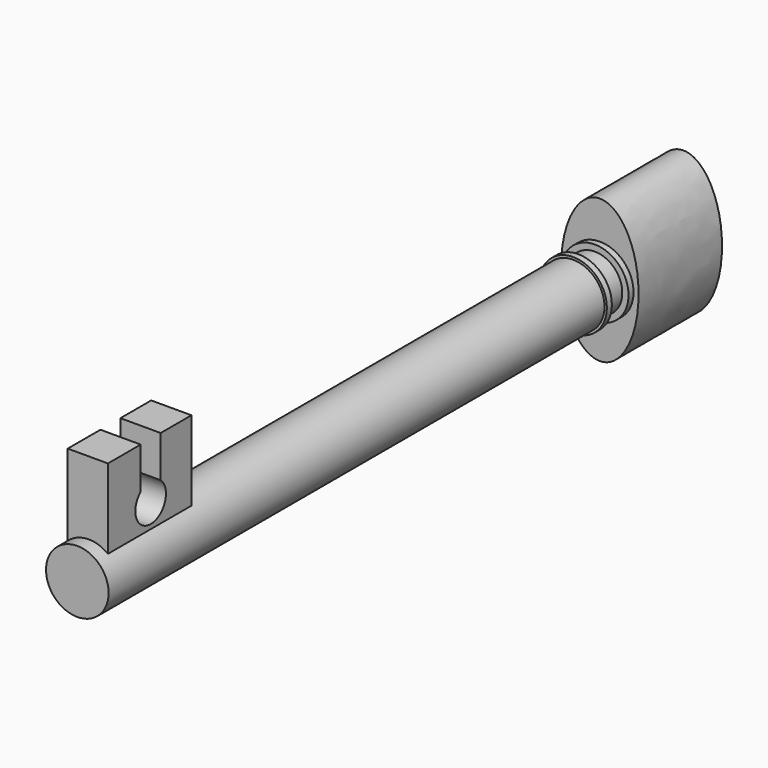
from build123d import *

# Parameters (mm, degrees)
F0_R      = 1.5
F1_DEPTH  = 30
F2_R      = 1.6147965921
F3_DEPTH  = 0.3
F4_R      = 1.3139828075
F5_DEPTH  = 1
F6_R      = 1.6138280909
F7_DEPTH  = 0.3
F8_W      = 1.9266049554
F8_H      = 5
F9_DEPTH  = 5
F11_DEPTH = 25
F13_DEPTH = 5


with BuildPart() as f1:
    # F0 (on Front) → F1 (new body)
    with BuildSketch(Plane.XZ):
        Circle(F0_R)
    extrude(amount=F1_DEPTH)

    # F2 (on Front) → F3 (join)
    with BuildSketch(Plane.XZ):
        Circle(F2_R)
    extrude(amount=F3_DEPTH)

    # F4 (on face) → F5 (join)
    with BuildSketch(Plane(origin=(0, 0, 0), x_dir=(-1, 0, 0), z_dir=(0, 1, 0))):
        Circle(F4_R)
    extrude(amount=F5_DEPTH)

    # F6 (on face) → F7 (join)
    with BuildSketch(Plane(origin=(0, 1, 0), x_dir=(-1, 0, 0), z_dir=(0, 1, 0))):
        Circle(F6_R)
    extrude(amount=F7_DEPTH)

    # F8 (on Top) → F9 (join)
    with BuildSketch(Plane.XY):
        with Locations((-0.043372449, -26.8169632182)):
            Rectangle(F8_W, F8_H)
    extrude(amount=F9_DEPTH)

    # F10 (on face) → F11 (cut)
    with BuildSketch(Plane(origin=(-1.0066749267, 0, 0), x_dir=(0, -1, 0), z_dir=(-1, 0, 0))):
        with BuildLine():
            Line((27.3571331054, 5), (26.1592064053, 5))
            Line((26.1592064053, 5), (26.1592064053, 3.0086300197))
            ThreePointArc((26.1592064053, 3.0086300197), (26.7581697553, 3.2316258366), (27.3571331054, 3.0086300197))
            Line((27.3571331054, 3.0086300197), (27.3571331054, 5))
        make_face()
        with BuildLine():
            ThreePointArc((27.3571331054, 3.0086300197), (26.7581697553, 3.2316258366), (26.1592064053, 3.0086300197))
            Line((26.1592064053, 3.0086300197), (26.1592064053, 2.4211721029))
            Line((26.1592064053, 2.4211721029), (27.3571331054, 2.4211721029))
            Line((27.3571331054, 2.4211721029), (27.3571331054, 3.0086300197))
        make_face()
        with BuildLine():
            Line((26.1592064053, 2.4211721029), (26.1592064053, 3.0086300197))
            ThreePointArc((26.1592064053, 3.0086300197), (26.3771949289, 1.4828183704), (27.6740708577, 2.3157247342))
            ThreePointArc((27.6740708577, 2.3157247342), (27.5910761192, 2.6966995606), (27.3571331054, 3.0086300197))
            Line((27.3571331054, 3.0086300197), (27.3571331054, 2.4211721029))
            Line((27.3571331054, 2.4211721029), (26.1592064053, 2.4211721029))
        make_face()
    extrude(amount=-F11_DEPTH, mode=Mode.SUBTRACT)

    # F12 (on face) → F13 (join)
    with BuildSketch(Plane(origin=(0, 1.3, 0), x_dir=(-1, 0, 0), z_dir=(0, 1, 0))):
        with BuildLine():
            add(Edge.make_bspline(
                [(0, 3.4274058416), (-3.2117910591, 3.4274058416), (-1.6058955295, -1.7137029208), (0, -6.8548116833), (1.6058955295, -1.7137029208), (3.2117910591, 3.4274058416), (0, 3.4274058416)],
                knots=[0, 0, 0, 2.0943951024, 2.0943951024, 4.1887902048, 4.1887902048, 6.2831853072, 6.2831853072, 6.2831853072], degree=2, weights=[1, 0.5, 1, 0.5, 1, 0.5, 1]))
        make_face()
    extrude(amount=F13_DEPTH)


solid = f1.part
